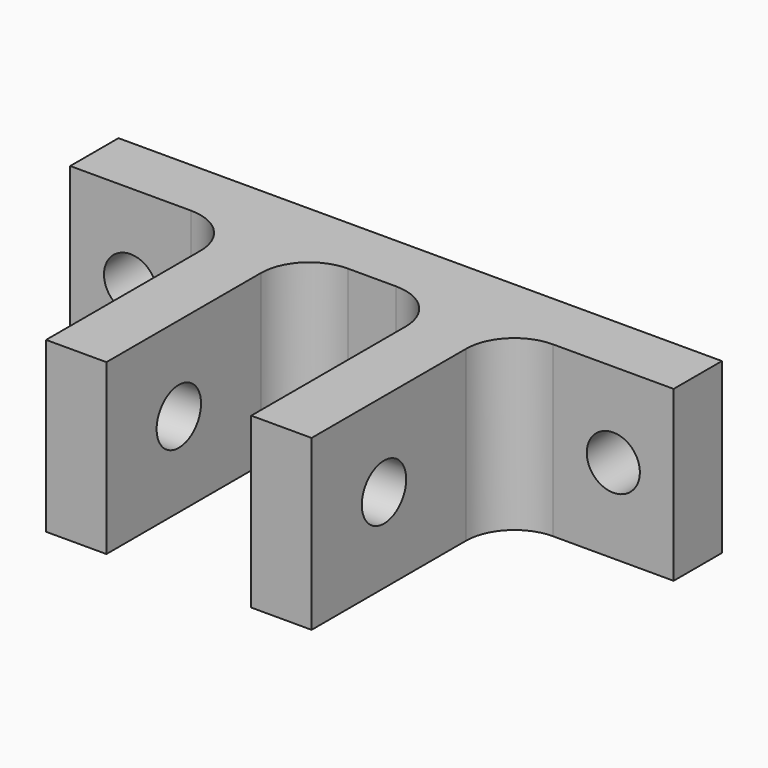
from build123d import *

# Parameters (mm, degrees)
PAD_DEPTH       = 14
SKETCH001_R     = 2.3
POCKET_DEPTH    = 36.001
SKETCH002_R     = 2.2
POCKET001_DEPTH = 25.001
FILLET_R        = 4


with BuildPart() as part:
    # Sketch → Pad (new body)
    with BuildSketch(Plane.XY):
        Polygon((27.992845, 15.579944), (-22.007155, 15.579944), (-22.007155, 10.579944), (-8.007155, 10.579944), (-8.007155, -9.420056), (-3.007155, -9.420056), (-3.007155, 10.579944), (8.992845, 10.579944), (8.992845, -9.420056), (13.992845, -9.420056), (13.992845, 10.579944), (27.992845, 10.579944), align=None)
    extrude(amount=PAD_DEPTH)

    # Sketch001 → Pocket (cut, through all)
    with BuildSketch(Plane.YZ.offset(13.992845)):
        with Locations((-1.920056, 7)):
            Circle(SKETCH001_R)
    extrude(amount=-POCKET_DEPTH, mode=Mode.SUBTRACT)

    # Sketch002 → Pocket001 (cut, through all)
    with BuildSketch(Plane(origin=(0, 15.579944, 0), x_dir=(-1, 0, 0), z_dir=(0, 1, 0))):
        with Locations((-22.992845, 7)):
            Circle(SKETCH002_R)
        with Locations((17.007155, 7)):
            Circle(SKETCH002_R)
    extrude(amount=-POCKET001_DEPTH, mode=Mode.SUBTRACT)

    # Fillet
    fillet_edges = [part.edges().sort_by_distance(p)[0] for p in [
        (13.992845, 10.579944, 7),
        (-8.007155, 10.579944, 7),
        (8.992845, 10.579944, 7),
        (-3.007155, 10.579944, 7),
    ]]
    fillet(fillet_edges, radius=FILLET_R)


solid = part.part
